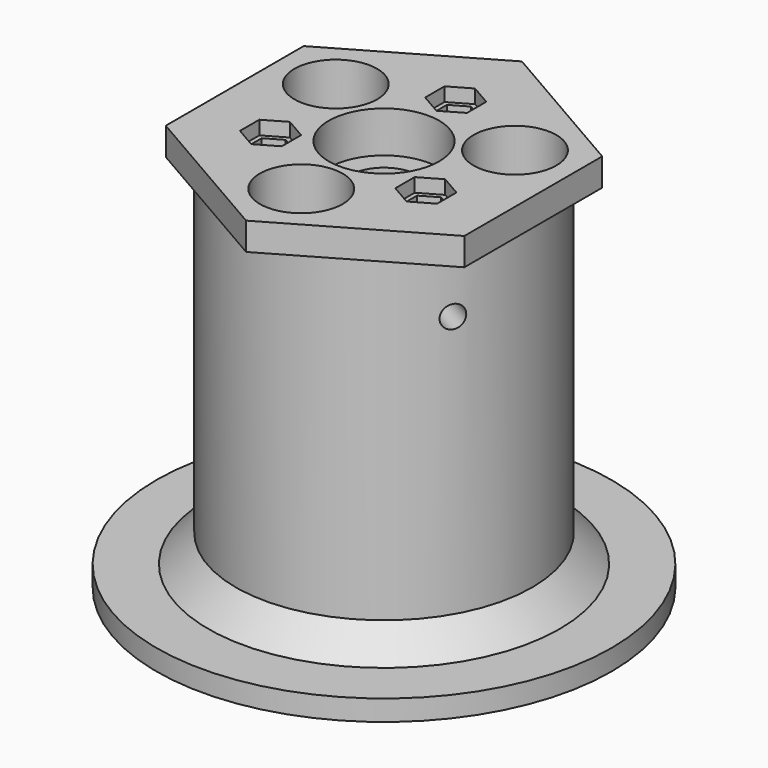
from build123d import *

# Parameters (mm, degrees)
CYLINDER003_R               = 8
CYLINDER003_DEPTH           = 6
CYLINDER002_R               = 1.625
CYLINDER002_DEPTH           = 10
CYLINDER002_ROLL_ANGLE      = -90
CYLINDER002_PLACEMENT_ANGLE = 120
CYLINDER001_R               = 1.625
CYLINDER001_DEPTH           = 10
CYLINDER001_PITCH_ANGLE     = 90
CYLINDER001_PLACEMENT_ANGLE = -30
CYLINDER_R                  = 1.625
CYLINDER_DEPTH              = 10
PAD_DEPTH                   = 4
SKETCH001_R                 = 21.5
PAD001_DEPTH                = 50
SKETCH002_R                 = 33
PAD002_DEPTH                = 3
SKETCH003_R                 = 5
POCKET_DEPTH                = 57.001
SKETCH004_R                 = 6
POCKET001_DEPTH             = 57.001
SKETCH005_R                 = 1.625
POCKET002_DEPTH             = 30
POCKET003_DEPTH             = 5
POCKET004_DEPTH             = 2
BODY_PLACEMENT_ANGLE        = 180
CHAMFER_SIZE                = 4


with BuildPart() as bearing_cut:
    # Cylinder003 → Cylinder003 (new body)
    with BuildSketch(Plane.XY.offset(-6)):
        Circle(CYLINDER003_R)
    extrude(amount=CYLINDER003_DEPTH)


with BuildPart() as cylinder002:
    # Cylinder002 → Cylinder002 (new body)
    with BuildSketch(Plane.XY):
        Circle(CYLINDER002_R)
    extrude(amount=CYLINDER002_DEPTH)


with BuildPart() as cylinder002_1:
    # Cylinder002 roll: moved
    add(cylinder002.part.rotate(Axis((0, 0, 0), (1, 0, 0)), CYLINDER002_ROLL_ANGLE))


with BuildPart() as cylinder002_2:
    # Cylinder002 placement: moved
    add(cylinder002_1.part.moved(Location((-10.392305, -6, -12))).rotate(Axis((-10.392305, -6, -12), (0, 0, 1)), CYLINDER002_PLACEMENT_ANGLE))


with BuildPart() as cylinder001:
    # Cylinder001 → Cylinder001 (new body)
    with BuildSketch(Plane.XY):
        Circle(CYLINDER001_R)
    extrude(amount=CYLINDER001_DEPTH)


with BuildPart() as cylinder001_1:
    # Cylinder001 pitch: moved
    add(cylinder001.part.rotate(Axis((0, 0, 0), (0, 1, 0)), CYLINDER001_PITCH_ANGLE))


with BuildPart() as cylinder001_2:
    # Cylinder001 placement: moved
    add(cylinder001_1.part.moved(Location((10.392305, -6, -12))).rotate(Axis((10.392305, -6, -12), (0, 0, 1)), CYLINDER001_PLACEMENT_ANGLE))


with BuildPart() as cylinder:
    # Cylinder → Cylinder (new body)
    with BuildSketch(Plane(origin=(0, 22, -12), x_dir=(1, 0, 0), z_dir=(0, -1, 0))):
        Circle(CYLINDER_R)
    extrude(amount=CYLINDER_DEPTH)


with BuildPart() as reinforced:
    # Sketch → Pad (new body)
    with BuildSketch(Plane.XY):
        Polygon((0, 25), (-21.650635, 12.5), (-21.650635, -12.5), (0, -25), (21.650635, -12.5), (21.650635, 12.5), align=None)
    extrude(amount=PAD_DEPTH)

    # Sketch001 (on Face8 of Pad) → Pad001 (join)
    with BuildSketch(Plane.XY.offset(4)):
        Circle(SKETCH001_R)
    extrude(amount=PAD001_DEPTH)

    # Sketch002 (on Face10 of Pad001) → Pad002 (join)
    with BuildSketch(Plane.XY.offset(54)):
        Circle(SKETCH002_R)
    extrude(amount=PAD002_DEPTH)

    # Sketch003 (on Face3 of Pad002) → Pocket (cut, through all)
    with BuildSketch(Plane.XY.offset(57)):
        Circle(SKETCH003_R)
    extrude(amount=-POCKET_DEPTH, mode=Mode.SUBTRACT)

    # Sketch004 (on Face3 of Pocket) → Pocket001 (cut, through all)
    with BuildSketch(Plane.XY.offset(57)):
        with Locations((12.990381, -7.5)):
            Circle(SKETCH004_R)
        with Locations((-12.990381, -7.5)):
            Circle(SKETCH004_R)
        with Locations((0, 15)):
            Circle(SKETCH004_R)
    extrude(amount=-POCKET001_DEPTH, mode=Mode.SUBTRACT)

    # Sketch005 (on Face10 of Pocket001) → Pocket002 (cut)
    with BuildSketch(Plane(origin=(0, 0, 0), x_dir=(1, 0, 0), z_dir=(0, 0, -1))):
        with Locations((0, 13)):
            Circle(SKETCH005_R)
        with Locations((11.264982, -6.488465)):
            Circle(SKETCH005_R)
        with Locations((-11.264982, -6.488465)):
            Circle(SKETCH005_R)
    extrude(amount=-POCKET002_DEPTH, mode=Mode.SUBTRACT)

    # Sketch006 (on Face10 of Pocket002) → Pocket003 (cut)
    with BuildSketch(Plane(origin=(0, 0, 0), x_dir=(1, 0, 0), z_dir=(0, 0, -1))):
        Polygon((13.646552, -7.863465), (13.646552, -5.113465), (11.264982, -3.738465), (8.883412, -5.113465), (8.883412, -7.863465), (11.264982, -9.238465), align=None)
        Polygon((-8.883412, -5.113465), (-11.264982, -3.738465), (-13.646552, -5.113465), (-13.646552, -7.863465), (-11.264982, -9.238465), (-8.883412, -7.863465), align=None)
        Polygon((2.38157, 14.375), (0, 15.75), (-2.38157, 14.375), (-2.38157, 11.625), (0, 10.25), (2.38157, 11.625), align=None)
    extrude(amount=-POCKET003_DEPTH, mode=Mode.SUBTRACT)

    # Sketch007 (on Face10 of Pocket003) → Pocket004 (cut)
    with BuildSketch(Plane(origin=(0, 0, 0), x_dir=(1, 0, 0), z_dir=(0, 0, -1))):
        Polygon((3.031089, 11.25), (3.031089, 14.75), (0, 16.5), (-3.031089, 14.75), (-3.031089, 11.25), (0, 9.5), align=None)
        Polygon((14.296071, -8.238465), (14.296071, -4.738465), (11.264982, -2.988465), (8.233893, -4.738465), (8.233893, -8.238465), (11.264982, -9.988465), align=None)
        Polygon((-8.233893, -8.238465), (-8.233893, -4.738465), (-11.264982, -2.988465), (-14.296071, -4.738465), (-14.296071, -8.238465), (-11.264982, -9.988465), align=None)
    extrude(amount=-POCKET004_DEPTH, mode=Mode.SUBTRACT)


with BuildPart() as reinforced_1:
    # Body placement: moved
    add(reinforced.part.rotate(Axis((0, 0, 0), (1, 0, 0)), BODY_PLACEMENT_ANGLE))

    # Cut: cut Cylinder
    add(cylinder.part, mode=Mode.SUBTRACT)

    # Cut001: cut Cylinder001
    add(cylinder001_2.part, mode=Mode.SUBTRACT)

    # Cut002: cut Cylinder002
    add(cylinder002_2.part, mode=Mode.SUBTRACT)

    # Cut003: cut Bearing cut
    add(bearing_cut.part, mode=Mode.SUBTRACT)

    # Chamfer
    chamfer_edges = [reinforced_1.edges().sort_by_distance(p)[0] for p in [
        (-21.5, 0, -54),
    ]]
    chamfer(chamfer_edges, length=CHAMFER_SIZE)


solid = reinforced_1.part
